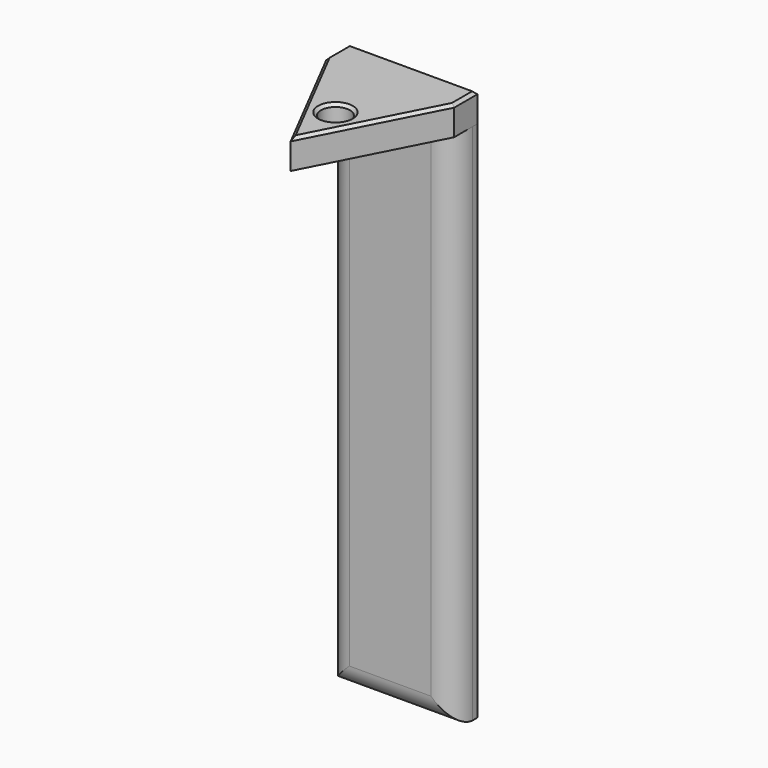
from build123d import *

# Parameters (mm, degrees)
F0_W     = 28.1045008451
F0_H     = 114.7014945745
F1_DEPTH = 3.175
F3_DEPTH = 6.35
F4_D     = 6.35
F5_SIZE  = 0.635
F6_R     = 5.08


with BuildPart() as f1:
    # F0 (on Front) → F1 (new body, symmetric)
    with BuildSketch(Plane.XZ):
        Rectangle(F0_W, F0_H)
    extrude(amount=F1_DEPTH, both=True)

    # F6
    f6_edges = [f1.edges().sort_by_distance(p)[0] for p in [
        (-14.05225, -3.175, 0),
        (0, -3.175, -57.350747),
        (14.05225, -3.175, 0),
    ]]
    fillet(f6_edges, radius=F6_R)


with BuildPart() as f3:
    # F2 (on face) → F3 (new body)
    with BuildSketch(Plane.XY.offset(57.3507472873)):
        Polygon((-14.0522504225, 3.175), (-14.0522504225, -3.175), (0, -30.4758194834), (14.0522504225, -3.175), (14.0522504225, 3.175), align=None)
    extrude(amount=F3_DEPTH)

    # F4 (through all)
    with Locations(Plane(origin=(0, 0, 57.3507472873), x_dir=(1, 0, 0), z_dir=(0, 0, -1))):
        with Locations((0, 18.1800983846)):
            Hole(F4_D / 2)

    # F5
    f5_edges = [f3.edges().sort_by_distance(p)[0] for p in [
        (-14.05225, 0, 63.700747),
        (0, 3.175, 63.700747),
        (-7.026125, -16.82541, 63.700747),
        (14.05225, 0, 63.700747),
        (7.026125, -16.82541, 63.700747),
        (-3.175, -18.180098, 63.700747),
    ]]
    chamfer(f5_edges, length=F5_SIZE)


solid = Compound([f1.part, f3.part])
